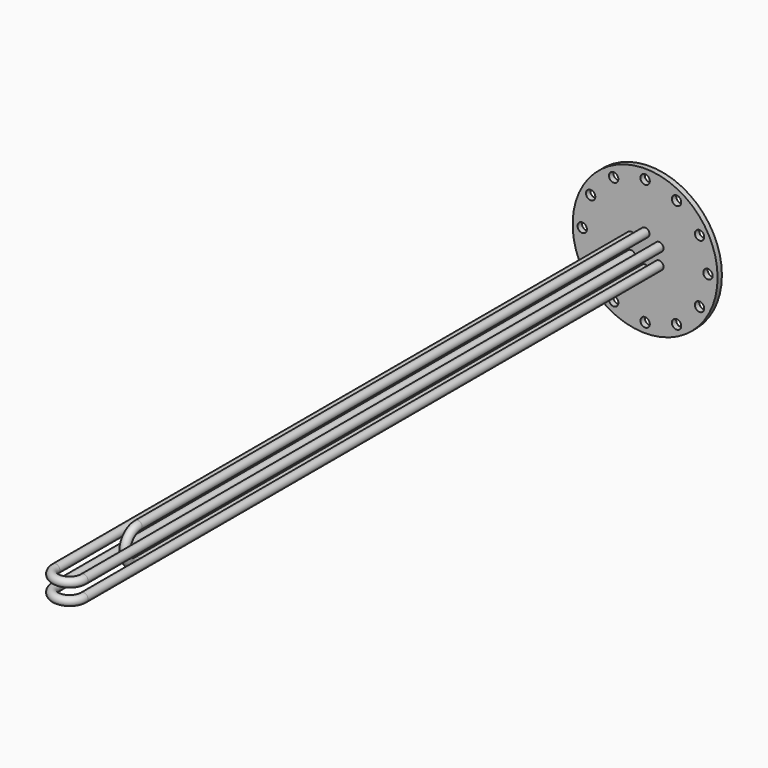
from build123d import *

# Parameters (mm, degrees)
F0_R      = 170
F0_R_2    = 10.16
F1_DEPTH  = 12.7
F3_R      = 10.16
F3_R_2    = 9.525
F7_R      = 10.16
F7_R_2    = 9.525
F11_R     = 10.16
F11_R_2   = 9.525
F13_R     = 5.08
F14_DEPTH = 38.1
F16_COUNT = 6
F17_R     = 11
F18_DEPTH = 25


with BuildPart() as f1:
    # F0 (on Front) → F1 (new body)
    with BuildSketch(Plane.XZ):
        Circle(F0_R)
        with Locations((-32.9955678842, -19.05)):
            Circle(F0_R_2, mode=Mode.SUBTRACT)
        with Locations((0, -38.1)):
            Circle(F0_R_2, mode=Mode.SUBTRACT)
        with Locations((32.9955678842, -19.05)):
            Circle(F0_R_2, mode=Mode.SUBTRACT)
        with Locations((-32.9955678842, 19.05)):
            Circle(F0_R_2, mode=Mode.SUBTRACT)
        with Locations((32.9955678842, 19.05)):
            Circle(F0_R_2, mode=Mode.SUBTRACT)
        with Locations((0, 38.1)):
            Circle(F0_R_2, mode=Mode.SUBTRACT)
    extrude(amount=F1_DEPTH)

    # F4: sweep along a path in F2
    with BuildLine(Plane.YZ) as f4_path:
        Line((0, 38.1), (-1500, 38.1))
        ThreePointArc((-1500, 38.1), (-1538.1, 0), (-1500, -38.1))
        Line((-1500, -38.1), (0, -38.1))
    # F3 (on Front) → F4 (sweep)
    with BuildSketch(Plane.XZ):
        with Locations((0, 38.1)):
            Circle(F3_R)
        with Locations((0, 38.1)):
            Circle(F3_R_2, mode=Mode.SUBTRACT)
    sweep(path=f4_path.line)

    # F8: sweep along a path in F6
    with BuildLine(Plane.XY.offset(19.05)) as f8_path:
        Line((-32.9946, 0), (-32.9946, -1700))
        ThreePointArc((-32.9946, -1700), (0, -1732.9946), (32.9946, -1700))
        Line((32.9946, -1700), (32.9946, 0))
    # F7 (on Front) → F8 (sweep)
    with BuildSketch(Plane.XZ):
        with Locations((32.9955678842, 19.05)):
            Circle(F7_R)
        with Locations((32.9955678842, 19.05)):
            Circle(F7_R_2, mode=Mode.SUBTRACT)
    sweep(path=f8_path.line)

    # F12: sweep along a path in F10
    with BuildLine(Plane.XY.offset(-19.05)) as f12_path:
        Line((-32.9946, 0), (-32.9946, -1700))
        ThreePointArc((-32.9946, -1700), (0, -1732.9946), (32.9946, -1700))
        Line((32.9946, -1700), (32.9946, 0))
    # F11 (on Front) → F12 (sweep)
    with BuildSketch(Plane.XZ):
        with Locations((32.9955678842, -19.05)):
            Circle(F11_R)
        with Locations((32.9955678842, -19.05)):
            Circle(F11_R_2, mode=Mode.SUBTRACT)
    sweep(path=f12_path.line)

    # F17 (on face) → F18 (cut)
    with BuildSketch(Plane.XZ):
        with Locations((0, 147.5)):
            Circle(F17_R)
        with Locations((-73.75, 127.7387470582)):
            Circle(F17_R)
        with Locations((-127.7387470582, 73.75)):
            Circle(F17_R)
        with Locations((-147.5, 0)):
            Circle(F17_R)
        with Locations((-127.7387470582, -73.75)):
            Circle(F17_R)
        with Locations((-73.75, -127.7387470582)):
            Circle(F17_R)
        with Locations((0, -147.5)):
            Circle(F17_R)
        with Locations((73.75, -127.7387470582)):
            Circle(F17_R)
        with Locations((127.7387470582, -73.75)):
            Circle(F17_R)
        with Locations((147.5, 0)):
            Circle(F17_R)
        with Locations((127.7387470582, 73.75)):
            Circle(F17_R)
        with Locations((73.75, 127.7387470582)):
            Circle(F17_R)
    extrude(amount=F18_DEPTH, mode=Mode.SUBTRACT)


with BuildPart() as f14:
    # F13 (on Front) → F14 (new body)
    with BuildSketch(Plane.XZ):
        with Locations((0, 38.1)):
            Circle(F13_R)
    extrude(amount=-F14_DEPTH)


with BuildPart() as f16_1:
    # F16: instance of F14
    add(f14.part.rotate(Axis((0, 37.9264950752, 0), (0, -1, 0)), 1 * 360 / F16_COUNT))


with BuildPart() as f16_2:
    # F16: instance of F14
    add(f14.part.rotate(Axis((0, 37.9264950752, 0), (0, -1, 0)), 2 * 360 / F16_COUNT))


with BuildPart() as f16_3:
    # F16: instance of F14
    add(f14.part.rotate(Axis((0, 37.9264950752, 0), (0, -1, 0)), 3 * 360 / F16_COUNT))


with BuildPart() as f16_4:
    # F16: instance of F14
    add(f14.part.rotate(Axis((0, 37.9264950752, 0), (0, -1, 0)), 4 * 360 / F16_COUNT))


with BuildPart() as f16_5:
    # F16: instance of F14
    add(f14.part.rotate(Axis((0, 37.9264950752, 0), (0, -1, 0)), 5 * 360 / F16_COUNT))


solid = Compound([f1.part, f14.part, f16_1.part, f16_2.part, f16_3.part, f16_4.part, f16_5.part])
